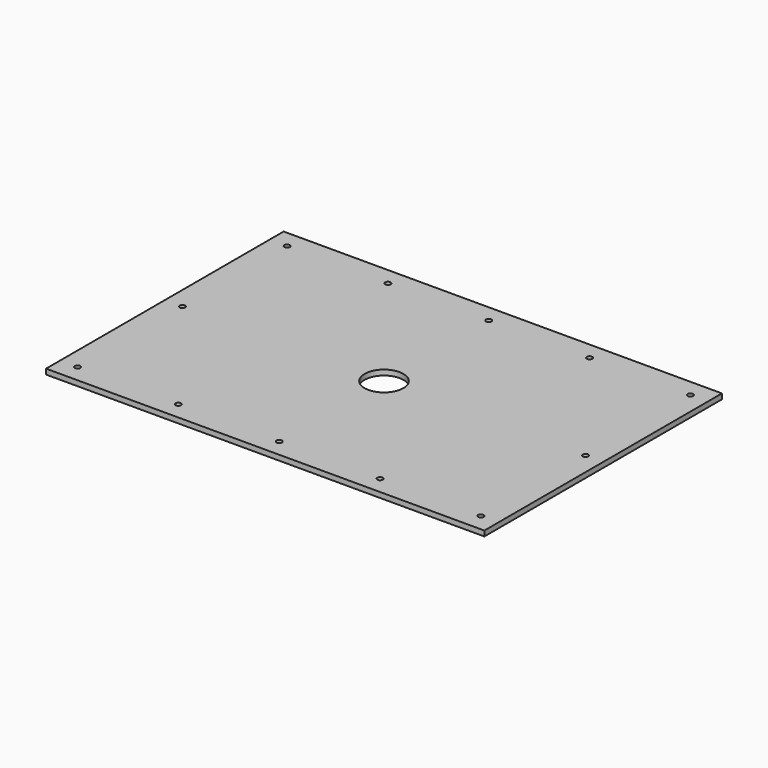
from build123d import *

# Parameters (mm, degrees)
F0_W     = 250
F0_H     = 169.4
F0_R     = 11.05
F1_DEPTH = 3


with BuildPart() as f1:
    # F0 (on Top) → F1 (new body)
    with BuildSketch(Plane.XY):
        with Locations((81.5, 64.7)):
            Rectangle(F0_W, F0_H)
        with BuildLine():
            ThreePointArc((-33.5, 137.85), (-34.596016, 140.496016), (-31.95, 139.4))
            Line((-31.95, 139.4), (22.45, 139.4))
            ThreePointArc((22.45, 139.4), (24, 140.95), (25.55, 139.4))
            Line((25.55, 139.4), (79.95, 139.4))
            ThreePointArc((79.95, 139.4), (81.5, 140.95), (83.05, 139.4))
            Line((83.05, 139.4), (137.45, 139.4))
            ThreePointArc((137.45, 139.4), (139, 140.95), (140.55, 139.4))
            Line((140.55, 139.4), (194.95, 139.4))
            ThreePointArc((194.95, 139.4), (196.5, 140.95), (198.05, 139.4))
            ThreePointArc((198.05, 139.4), (197.596016, 138.303984), (196.5, 137.85))
            Line((196.5, 137.85), (196.5, 66.25))
            ThreePointArc((196.5, 66.25), (197.596016, 65.796016), (198.05, 64.7))
            ThreePointArc((198.05, 64.7), (197.596016, 63.603984), (196.5, 63.15))
            Line((196.5, 63.15), (196.5, -8.45))
            ThreePointArc((196.5, -8.45), (197.596016, -8.903984), (198.05, -10))
            ThreePointArc((198.05, -10), (196.5, -11.55), (194.95, -10))
            Line((194.95, -10), (140.55, -10))
            ThreePointArc((140.55, -10), (139, -11.55), (137.45, -10))
            Line((137.45, -10), (83.05, -10))
            ThreePointArc((83.05, -10), (81.5, -11.55), (79.95, -10))
            Line((79.95, -10), (25.55, -10))
            ThreePointArc((25.55, -10), (24, -11.55), (22.45, -10))
            Line((22.45, -10), (-31.95, -10))
            ThreePointArc((-31.95, -10), (-34.596016, -11.096016), (-33.5, -8.45))
            Line((-33.5, -8.45), (-33.5, 63.15))
            ThreePointArc((-33.5, 63.15), (-35.05, 64.7), (-33.5, 66.25))
            Line((-33.5, 66.25), (-33.5, 137.85))
        make_face(mode=Mode.SUBTRACT)
        with BuildLine():
            Line((22.45, 139.4), (-31.95, 139.4))
            ThreePointArc((-31.95, 139.4), (-32.403984, 138.303984), (-33.5, 137.85))
            Line((-33.5, 137.85), (-33.5, 66.25))
            ThreePointArc((-33.5, 66.25), (-32.403984, 65.796016), (-31.95, 64.7))
            ThreePointArc((-31.95, 64.7), (-32.403984, 63.603984), (-33.5, 63.15))
            Line((-33.5, 63.15), (-33.5, -8.45))
            ThreePointArc((-33.5, -8.45), (-32.403984, -8.903984), (-31.95, -10))
            Line((-31.95, -10), (22.45, -10))
            ThreePointArc((22.45, -10), (24, -8.45), (25.55, -10))
            Line((25.55, -10), (79.95, -10))
            ThreePointArc((79.95, -10), (81.5, -8.45), (83.05, -10))
            Line((83.05, -10), (137.45, -10))
            ThreePointArc((137.45, -10), (139, -8.45), (140.55, -10))
            Line((140.55, -10), (194.95, -10))
            ThreePointArc((194.95, -10), (195.403984, -8.903984), (196.5, -8.45))
            Line((196.5, -8.45), (196.5, 63.15))
            ThreePointArc((196.5, 63.15), (194.95, 64.7), (196.5, 66.25))
            Line((196.5, 66.25), (196.5, 137.85))
            ThreePointArc((196.5, 137.85), (195.403984, 138.303984), (194.95, 139.4))
            Line((194.95, 139.4), (140.55, 139.4))
            ThreePointArc((140.55, 139.4), (139, 137.85), (137.45, 139.4))
            Line((137.45, 139.4), (83.05, 139.4))
            ThreePointArc((83.05, 139.4), (81.5, 137.85), (79.95, 139.4))
            Line((79.95, 139.4), (25.55, 139.4))
            ThreePointArc((25.55, 139.4), (24, 137.85), (22.45, 139.4))
        make_face()
        with Locations((81.5, 64.7)):
            Circle(F0_R, mode=Mode.SUBTRACT)
    extrude(amount=F1_DEPTH)


solid = f1.part
